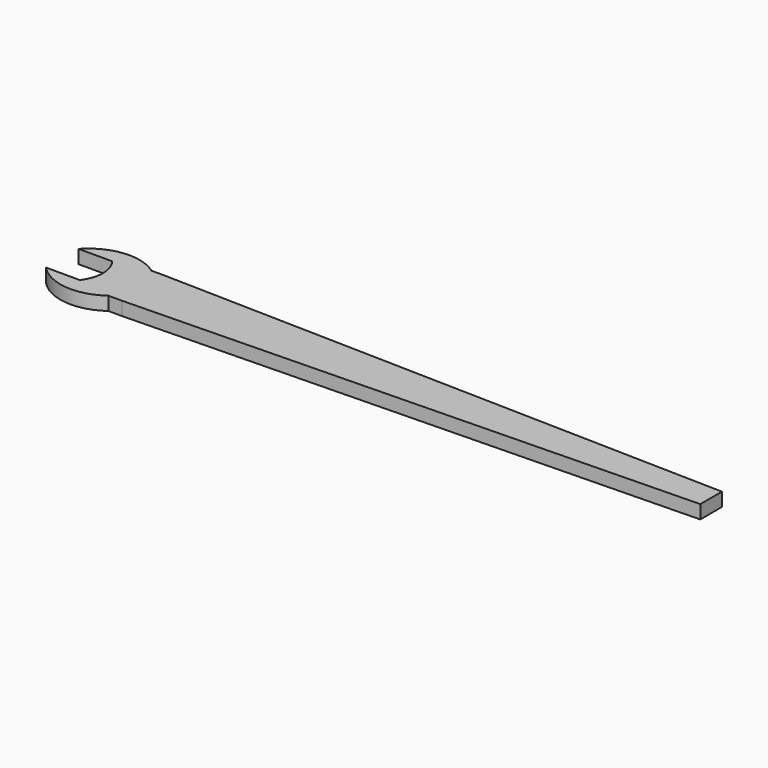
from build123d import *

# Parameters (mm, degrees)
F1_DEPTH = 12.7


with BuildPart() as f1:
    # F0 (on Top) → F1 (new body)
    with BuildSketch(Plane.XY):
        with BuildLine():
            Line((-571.475674, 0), (0, 0))
            Line((0, 0), (0, 12.7))
            Line((0, 12.7), (-533.4, 25.4))
            Line((-533.4, 25.4), (-546.1, 25.4))
            ThreePointArc((-546.1, 25.4), (-579.054577, 34.270767), (-609.6, 19.05))
            Line((-609.6, 19.05), (-577.85, 19.05))
            ThreePointArc((-577.85, 19.05), (-573.111527, 10.044084), (-571.475674, 0))
        make_face()
        with BuildLine():
            Line((0, -12.7), (0, 0))
            Line((0, 0), (-571.475674, 0))
            ThreePointArc((-571.475674, 0), (-573.111527, -10.044084), (-577.85, -19.05))
            Line((-577.85, -19.05), (-609.6, -19.05))
            ThreePointArc((-609.6, -19.05), (-579.054577, -34.270767), (-546.1, -25.4))
            Line((-546.1, -25.4), (-533.4, -25.4))
            Line((-533.4, -25.4), (0, -12.7))
        make_face()
    extrude(amount=F1_DEPTH)


solid = f1.part
